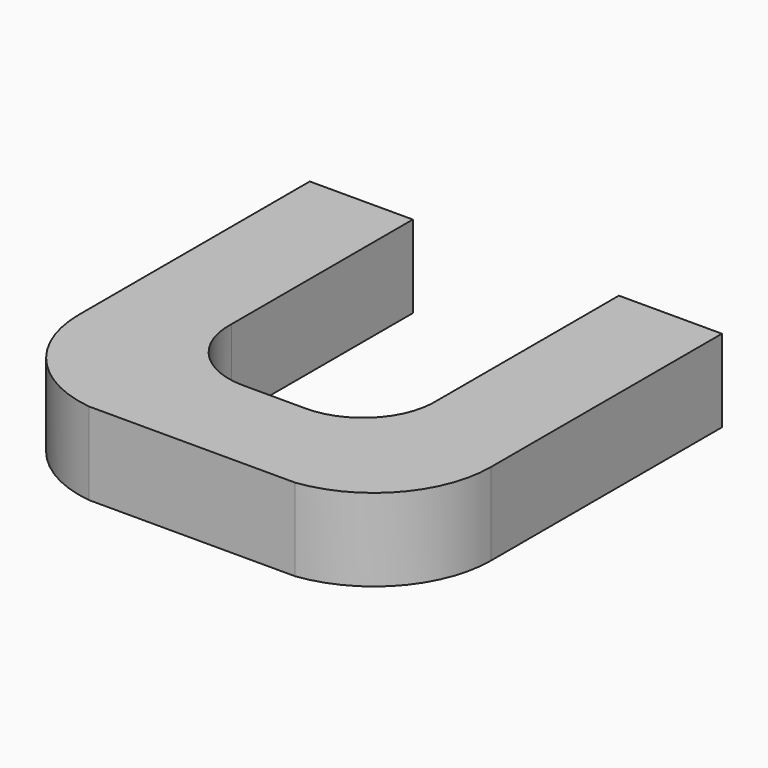
from build123d import *

# Parameters (mm, degrees)
F1_DEPTH = 25.4


with BuildPart() as f1:
    # F0 (on Top) → F1 (new body)
    with BuildSketch(Plane.XY):
        with BuildLine():
            Line((-12.846117, -73.052138), (-32.158173, -73.052138))
            ThreePointArc((-32.158173, -73.052138), (-48.158775, -66.20462), (-54.252145, -49.901903))
            Line((-54.252145, -49.901903), (-54.252145, 19.948097))
            Line((-54.252145, 19.948097), (-86.002145, 19.948097))
            Line((-86.002145, 19.948097), (-86.002145, -68.951903))
            ThreePointArc((-86.002145, -68.951903), (-76.923557, -92.896119), (-54.252145, -104.802138))
            Line((-54.252145, -104.802138), (9.247855, -104.802138))
            ThreePointArc((9.247855, -104.802138), (31.919267, -92.896119), (40.997855, -68.951903))
            Line((40.997855, -68.951903), (40.997855, 19.948097))
            Line((40.997855, 19.948097), (9.247855, 19.948097))
            Line((9.247855, 19.948097), (9.247855, -49.901903))
            ThreePointArc((9.247855, -49.901903), (3.154485, -66.20462), (-12.846117, -73.052138))
        make_face()
    extrude(amount=F1_DEPTH)


solid = f1.part
